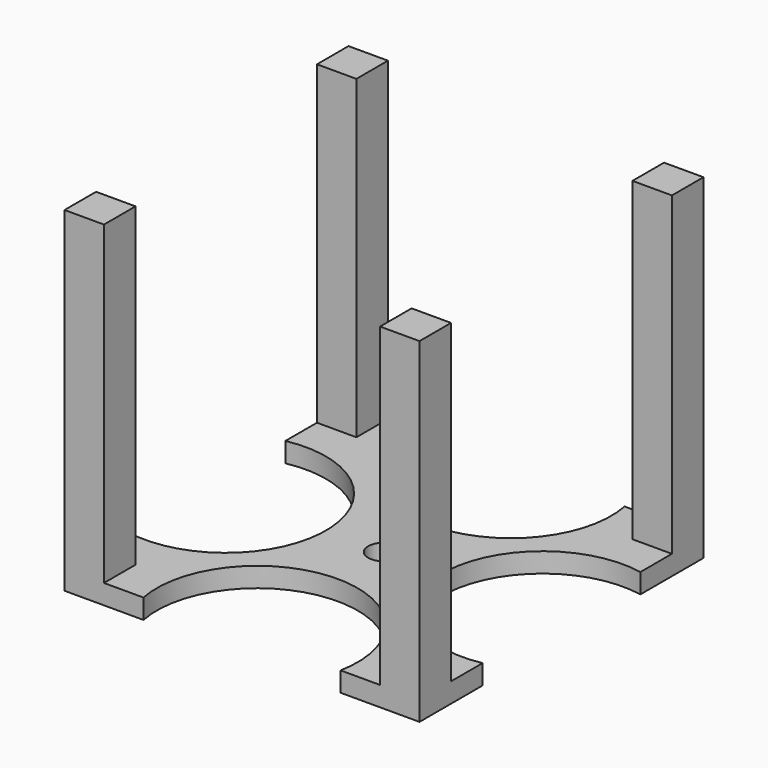
from build123d import *

# Parameters (mm, degrees)
F0_W     = 114.3
F0_H     = 114.3
F1_DEPTH = 6.35
F3_R     = 5.08
F4_DEPTH = 25.4
F2_W     = 12.7
F2_H     = 12.7
F5_DEPTH = 101.6
F7_DEPTH = 107.951


with BuildPart() as f1:
    # F0 (on Top) → F1 (new body)
    with BuildSketch(Plane.XY):
        Rectangle(F0_W, F0_H)
    extrude(amount=F1_DEPTH)

    # F3 (on face) → F4 (cut)
    with BuildSketch(Plane.XY.offset(6.35)):
        Circle(F3_R)
    extrude(amount=-F4_DEPTH, mode=Mode.SUBTRACT)

    # F2 (on face) → F5 (join)
    with BuildSketch(Plane.XY.offset(6.35)):
        with Locations((50.8, 50.8)):
            Rectangle(F2_W, F2_H)
        with Locations((-50.8, 50.8)):
            Rectangle(F2_W, F2_H)
        with Locations((-50.8, -50.8)):
            Rectangle(F2_W, F2_H)
        with Locations((50.8, -50.8)):
            Rectangle(F2_W, F2_H)
    extrude(amount=F5_DEPTH)

    # F6 (on face) → F7 (cut, through all)
    with BuildSketch(Plane(origin=(0, 0, 0), x_dir=(1, 0, 0), z_dir=(0, 0, -1))):
        with BuildLine():
            Line((-57.15, 31.75), (-57.15, -31.75))
            ThreePointArc((-57.15, -31.75), (-18.698453, 0), (-57.15, 31.75))
        make_face()
        with BuildLine():
            Line((-31.75, -57.15), (31.75, -57.15))
            ThreePointArc((31.75, -57.15), (0, -18.698453), (-31.75, -57.15))
        make_face()
        with BuildLine():
            Line((57.15, -31.75), (57.15, 31.75))
            ThreePointArc((57.15, 31.75), (18.698453, 0), (57.15, -31.75))
        make_face()
        with BuildLine():
            Line((31.75, 57.15), (-31.75, 57.15))
            ThreePointArc((-31.75, 57.15), (0, 18.698453), (31.75, 57.15))
        make_face()
    extrude(amount=-F7_DEPTH, mode=Mode.SUBTRACT)


solid = f1.part
